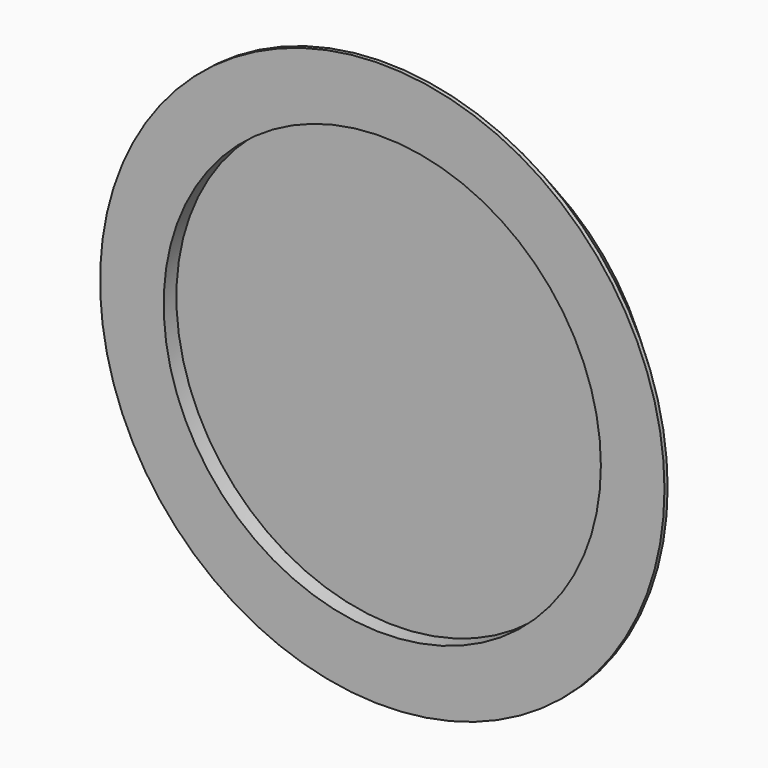
from build123d import *

# Parameters (mm, degrees)
F0_R     = 45.085
F1_DEPTH = 10.16
F2_R     = 34.925
F3_DEPTH = 2.54
F4_SIZE  = 9.525


with BuildPart() as f1:
    # F0 (on Front) → F1 (new body)
    with BuildSketch(Plane.XZ):
        Circle(F0_R)
    extrude(amount=F1_DEPTH)

    # F2 (on face) → F3 (cut)
    with BuildSketch(Plane.XZ.offset(10.16)):
        Circle(F2_R)
    extrude(amount=-F3_DEPTH, mode=Mode.SUBTRACT)

    # F4
    f4_edges = [f1.edges().sort_by_distance(p)[0] for p in [
        (-45.085, 0, 0),
    ]]
    chamfer(f4_edges, length=F4_SIZE)


solid = f1.part
